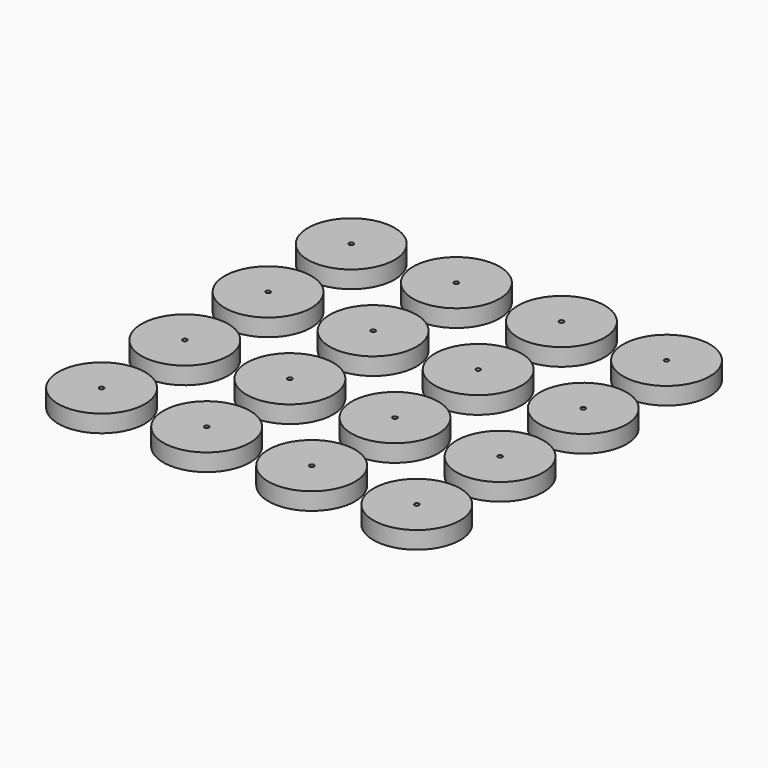
from build123d import *

# Parameters (mm, degrees)
F0_R     = 31.75
F0_R_2   = 1.651
F1_DEPTH = 12.7


with BuildPart() as f1:
    # F0 (on Top) → F1 (new body)
    with BuildSketch(Plane.XY):
        Circle(F0_R)
        Circle(F0_R_2, mode=Mode.SUBTRACT)
        with Locations((76.962, 0)):
            Circle(F0_R)
        with Locations((76.962, 0)):
            Circle(F0_R_2, mode=Mode.SUBTRACT)
        with Locations((153.924, 0)):
            Circle(F0_R)
        with Locations((153.924, 0)):
            Circle(F0_R_2, mode=Mode.SUBTRACT)
        with Locations((230.886, 0)):
            Circle(F0_R)
        with Locations((230.886, 0)):
            Circle(F0_R_2, mode=Mode.SUBTRACT)
        with Locations((230.886, -76.2)):
            Circle(F0_R)
        with Locations((230.886, -76.2)):
            Circle(F0_R_2, mode=Mode.SUBTRACT)
        with Locations((153.924, -76.2)):
            Circle(F0_R)
        with Locations((153.924, -76.2)):
            Circle(F0_R_2, mode=Mode.SUBTRACT)
        with Locations((76.962, -76.2)):
            Circle(F0_R)
        with Locations((76.962, -76.2)):
            Circle(F0_R_2, mode=Mode.SUBTRACT)
        with Locations((0, -76.2)):
            Circle(F0_R)
        with Locations((0, -76.2)):
            Circle(F0_R_2, mode=Mode.SUBTRACT)
        with Locations((0, -152.4)):
            Circle(F0_R)
        with Locations((0, -152.4)):
            Circle(F0_R_2, mode=Mode.SUBTRACT)
        with Locations((76.962, -152.4)):
            Circle(F0_R)
        with Locations((76.962, -152.4)):
            Circle(F0_R_2, mode=Mode.SUBTRACT)
        with Locations((153.924, -152.4)):
            Circle(F0_R)
        with Locations((153.924, -152.4)):
            Circle(F0_R_2, mode=Mode.SUBTRACT)
        with Locations((230.886, -152.4)):
            Circle(F0_R)
        with Locations((230.886, -152.4)):
            Circle(F0_R_2, mode=Mode.SUBTRACT)
        with Locations((230.886, -228.6)):
            Circle(F0_R)
        with Locations((230.886, -228.6)):
            Circle(F0_R_2, mode=Mode.SUBTRACT)
        with Locations((153.924, -228.6)):
            Circle(F0_R)
        with Locations((153.924, -228.6)):
            Circle(F0_R_2, mode=Mode.SUBTRACT)
        with Locations((76.962, -228.6)):
            Circle(F0_R)
        with Locations((76.962, -228.6)):
            Circle(F0_R_2, mode=Mode.SUBTRACT)
        with Locations((0, -228.6)):
            Circle(F0_R)
        with Locations((0, -228.6)):
            Circle(F0_R_2, mode=Mode.SUBTRACT)
    extrude(amount=F1_DEPTH)


solid = f1.part
